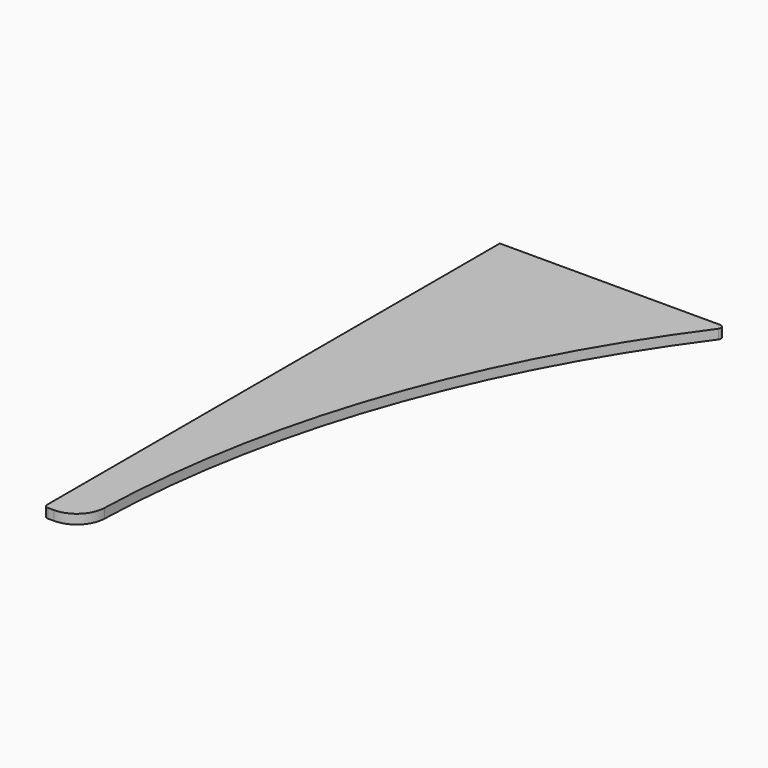
from build123d import *

# Parameters (mm, degrees)
F0_R     = 19.626039
F1_DEPTH = 2.5
F2_R     = 2
F3_R     = 15


with BuildPart() as f1:
    # F0 (on Top) → F1 (new body, symmetric)
    with BuildSketch(Plane.XY):
        with BuildLine():
            Line((370, 300), (250, 300))
            Line((250, 300), (250, 0))
            Line((250, 0), (270, 0))
            ThreePointArc((270, 0), (295.658351, 158.113883), (370, 300))
        make_face()
        with Locations((294.626039, 255.373961)):
            Circle(F0_R, mode=Mode.SUBTRACT)
        with Locations((294.626039, 255.373961)):
            Circle(F0_R)
    extrude(amount=F1_DEPTH, both=True)

    # F2
    f2_edges = [f1.edges().sort_by_distance(p)[0] for p in [
        (250, 0, 0),
        (370, 300, 0),
    ]]
    fillet(f2_edges, radius=F2_R)

    # F3
    f3_edges = [f1.edges().sort_by_distance(p)[0] for p in [
        (270, 0, 0),
    ]]
    fillet(f3_edges, radius=F3_R)


solid = f1.part
